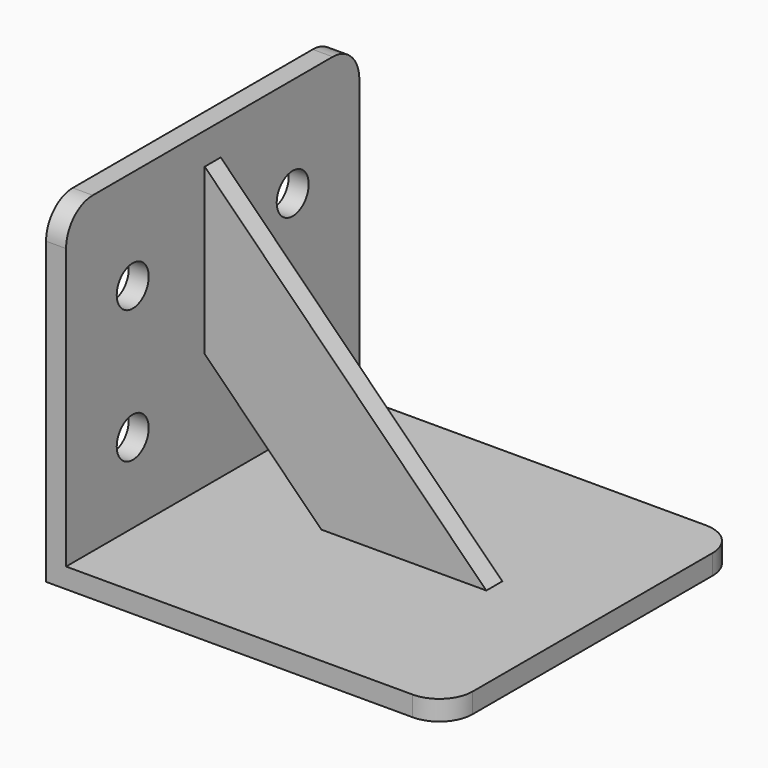
from build123d import *

# Parameters (mm, degrees)
F1_DEPTH = 55
F2_DEPTH = 3
F3_R     = 6
F4_DEPTH = 120.001
F5_R     = 10


with BuildPart() as f1:
    # F0 (on Front) → F1 (new body, symmetric)
    with BuildSketch(Plane.XZ):
        Polygon((0, 100), (0, 0), (120, 0), (120, 6), (90.497475, 6), (41, 6), (6, 6), (6, 41), (6, 90.497475), (6, 100), align=None)
    extrude(amount=F1_DEPTH, both=True)

    # F0 (on Front) → F2 (join, symmetric)
    with BuildSketch(Plane.XZ):
        Polygon((41, 6), (90.497475, 6), (6, 90.497475), (6, 41), align=None)
    extrude(amount=F2_DEPTH, both=True)

    # F3 (on face) → F4 (cut, through all)
    with BuildSketch(Plane(origin=(0, 0, 0), x_dir=(0, -1, 0), z_dir=(-1, 0, 0))):
        with Locations((-30, 70)):
            Circle(F3_R)
        with Locations((30, 70)):
            Circle(F3_R)
        with Locations((30, 30)):
            Circle(F3_R)
        with Locations((-30, 30)):
            Circle(F3_R)
    extrude(amount=-F4_DEPTH, mode=Mode.SUBTRACT)

    # F5
    f5_edges = [f1.edges().sort_by_distance(p)[0] for p in [
        (3, -55, 100),
        (120, -55, 3),
        (120, 55, 3),
        (3, 55, 100),
    ]]
    fillet(f5_edges, radius=F5_R)


solid = f1.part
